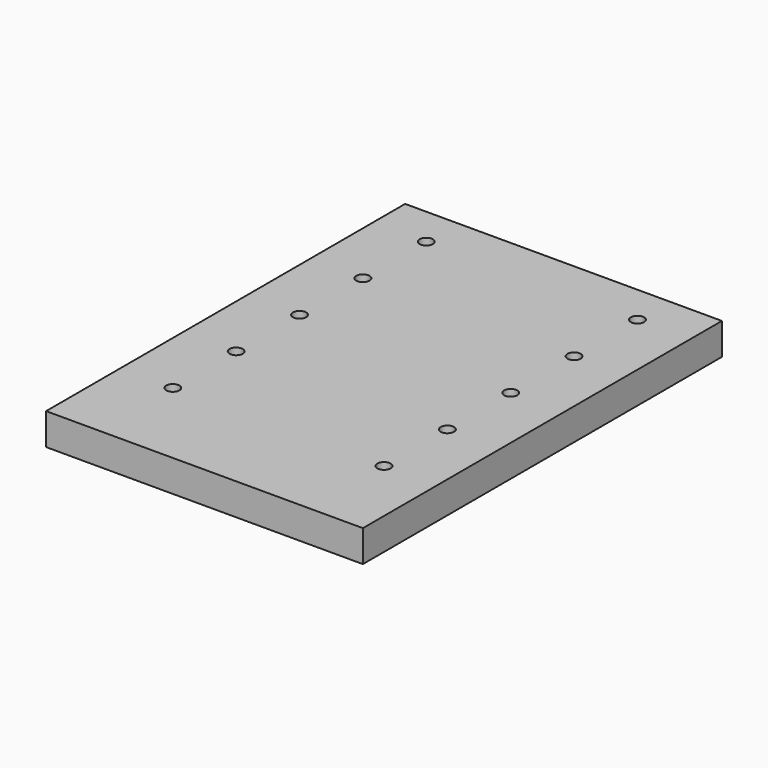
from build123d import *

# Parameters (mm, degrees)
F1_DEPTH = 170
F3_D     = 5
F5_D     = 5


with BuildPart() as f1:
    # F0 (on Front) → F1 (new body)
    with BuildSketch(Plane.XZ):
        Polygon((0, 12), (0, 0), (120, 0), (120, 12), (66.9767542527, 12), align=None)
    extrude(amount=F1_DEPTH)

    # F3 (through all)
    with Locations(Plane.XY.offset(12)):
        with Locations((20, -15), (20, -45), (20, -75), (20, -105), (20, -135)):
            Hole(F3_D / 2)

    # F5 (through all)
    with Locations(Plane.XY.offset(12)):
        with Locations((100, -15), (100, -45), (100, -75), (100, -105), (100, -135)):
            Hole(F5_D / 2)


solid = f1.part
